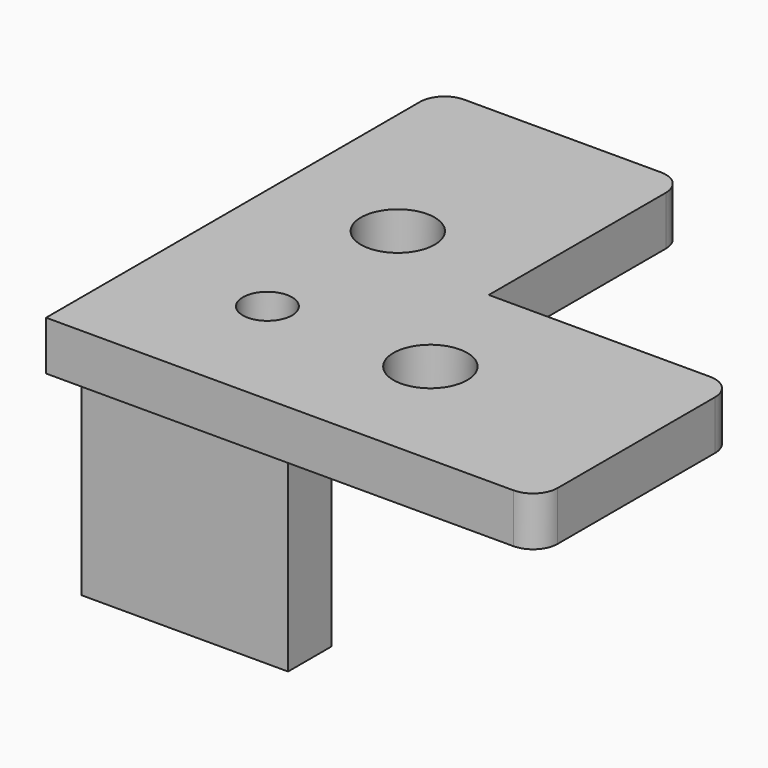
from build123d import *

# Parameters (mm, degrees)
SKETCH_W        = 16.8
SKETCH_H        = 16.8
SKETCH_R        = 2
PAD_DEPTH       = 16
SKETCH002_R     = 2
SKETCH002_R_2   = 3
PAD001_DEPTH    = 4
SKETCH003_W     = 11.9
SKETCH003_H     = 12.4
POCKET001_DEPTH = 12
SKETCH001_R     = 3.5
POCKET_DEPTH    = 4
POCKET002_DEPTH = 3.5
SKETCH005_R     = 2
POCKET003_DEPTH = 38.401
FILLET_R        = 2


with BuildPart() as part:
    # Sketch → Pad (new body)
    with BuildSketch(Plane.XY):
        Rectangle(SKETCH_W, SKETCH_H)
        Circle(SKETCH_R, mode=Mode.SUBTRACT)
    extrude(amount=PAD_DEPTH)

    # Sketch002 → Pad001 (join)
    with BuildSketch(Plane.XY.offset(16)):
        Polygon((-10, -10), (30, -10), (30, 10), (10, 10), (10, 30), (-10, 30), align=None)
        Circle(SKETCH002_R, mode=Mode.SUBTRACT)
        with Locations((0, 13.25)):
            Circle(SKETCH002_R_2, mode=Mode.SUBTRACT)
        with Locations((13.25, 0)):
            Circle(SKETCH002_R_2, mode=Mode.SUBTRACT)
    extrude(amount=PAD001_DEPTH)

    # Sketch003 → Pocket001 (cut)
    with BuildSketch(Plane.XY):
        with Locations((2.45, 2.2)):
            Rectangle(SKETCH003_W, SKETCH003_H)
    extrude(amount=POCKET001_DEPTH, mode=Mode.SUBTRACT)

    # Sketch001 (on Face5 of Pocket001) → Pocket (cut)
    with BuildSketch(Plane(origin=(0, 0, 16), x_dir=(1, 0, 0), z_dir=(0, 0, -1))):
        Circle(SKETCH001_R)
    extrude(amount=POCKET_DEPTH, mode=Mode.SUBTRACT)

    # Sketch004 (on Face9 of Pocket) → Pocket002 (cut)
    with BuildSketch(Plane.YZ.offset(-3.5)):
        Polygon((4, 6), (2, 9.464102), (-2, 9.464102), (-4, 6), (-2, 2.535898), (2, 2.535898), align=None)
    extrude(amount=-POCKET002_DEPTH, mode=Mode.SUBTRACT)

    # Sketch005 (on Face2 of Pocket002) → Pocket003 (cut, through all)
    with BuildSketch(Plane(origin=(-8.4, 0, 0), x_dir=(0, -1, 0), z_dir=(-1, 0, 0))):
        with Locations((0, 6)):
            Circle(SKETCH005_R)
    extrude(amount=-POCKET003_DEPTH, mode=Mode.SUBTRACT)

    # Fillet
    fillet_edges = [part.edges().sort_by_distance(p)[0] for p in [
        (30, -10, 18),
        (30, 10, 18),
        (10, 30, 18),
        (-10, 30, 18),
    ]]
    fillet(fillet_edges, radius=FILLET_R)


solid = part.part
